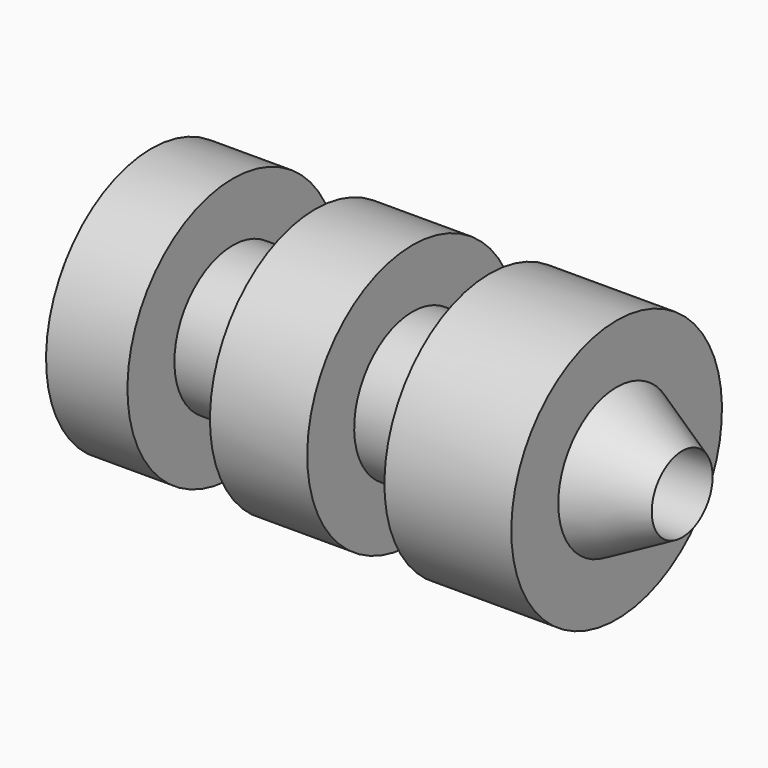
from build123d import *


with BuildPart() as f1:
    # F0 (on Front) → F1 (revolve)
    with BuildSketch(Plane.XZ):
        Polygon((-97.380288, -21.840891), (-97.380288, -34.82493), (114.692323, -34.82493), (90.298079, -21.840891), (90.298079, 0), (43.0834, 0), (43.0834, -21.840891), (14.361127, -21.840891), (14.361127, 0), (-21.836793, 0), (-21.836793, -21.840891), (-52.526336, -21.840891), (-52.526336, 0), (-82.822427, 0), (-82.822427, -21.840891), align=None)
    revolve(axis=Axis((6.492015, 0, -48.989333), (1, 0, 0)))


solid = f1.part
